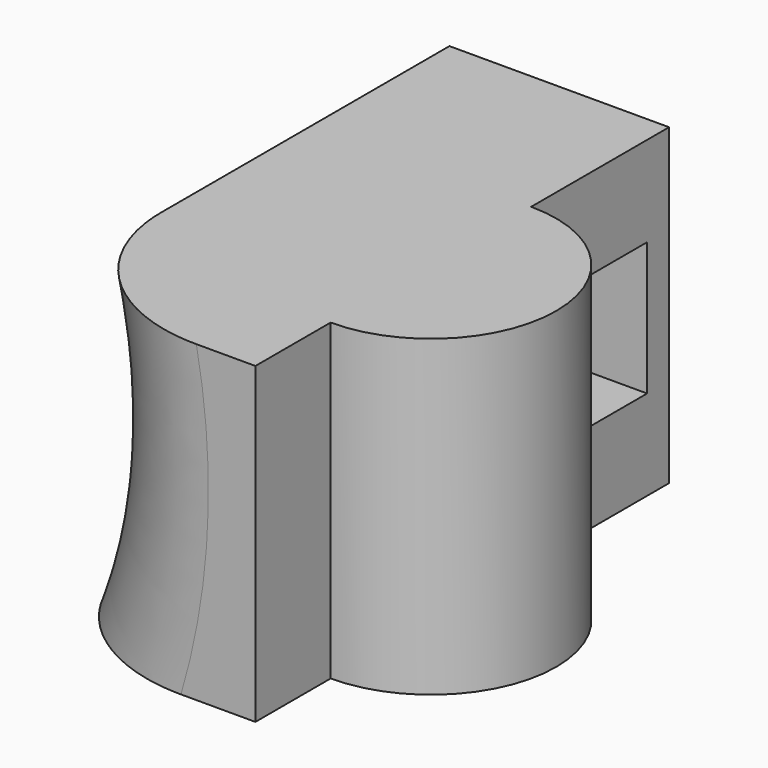
from build123d import *

# Parameters (mm, degrees)
PAD_DEPTH       = 20
POCKET_DEPTH    = 33.001
SKETCH002_W     = 8.5
SKETCH002_H     = 8.5
POCKET001_DEPTH = 6
SKETCH003_R     = 3
POCKET002_DEPTH = 15.001
FILLET_R        = 10


with BuildPart() as part:
    # Sketch → Pad (new body)
    with BuildSketch(Plane.XY):
        with BuildLine():
            Line((-15, -14), (0, -14))
            Line((0, -14), (0, -8))
            ThreePointArc((0, -8), (8, 0), (0, 8))
            Line((0, 19), (0, 8))
            Line((-15, 19), (0, 19))
            Line((-15, 19), (-15, -14))
        make_face()
    extrude(amount=PAD_DEPTH)

    # Sketch001 → Pocket (cut, through all)
    with BuildSketch(Plane(origin=(0, 19, 0), x_dir=(-1, 0, 0), z_dir=(0, 1, 0))):
        with BuildLine():
            Line((19.016133, 20), (19.016133, 0))
            Line((19.016133, 0), (15.335206, 0))
            ThreePointArc((14.016133, 20), (13.069372, 9.894059), (15.335206, 0))
            Line((19.016133, 20), (14.016133, 20))
        make_face()
    extrude(amount=-POCKET_DEPTH, mode=Mode.SUBTRACT)

    # Sketch002 → Pocket001 (cut)
    with BuildSketch(Plane.YZ):
        with Locations((13, 10)):
            Rectangle(SKETCH002_W, SKETCH002_H)
    extrude(amount=-POCKET001_DEPTH, mode=Mode.SUBTRACT)

    # Sketch003 → Pocket002 (cut, through all)
    with BuildSketch(Plane.YZ):
        with Locations((13, 10)):
            Circle(SKETCH003_R)
    extrude(amount=-POCKET002_DEPTH, mode=Mode.SUBTRACT)

    # Fillet
    fillet_edges = [part.edges().sort_by_distance(p)[0] for p in [
        (-13.042214, -14, 10.356868),
    ]]
    fillet(fillet_edges, radius=FILLET_R)


solid = part.part
